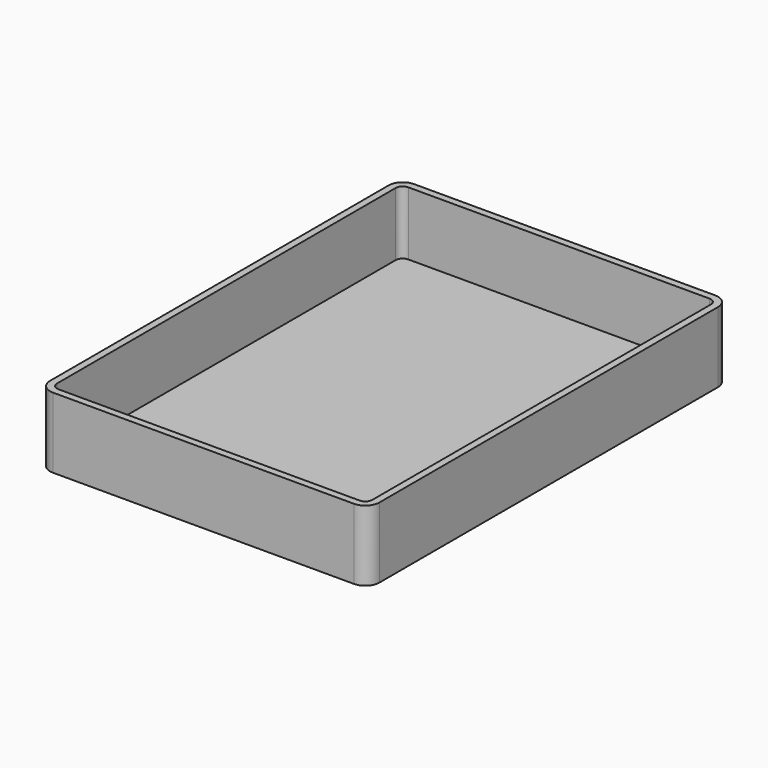
from build123d import *

# Parameters (mm, degrees)
F0_W     = 118.589319
F0_H     = 162.553676
F1_DEPTH = 25.4
F2_R     = 5.08
F3_T     = -2.54


with BuildPart() as f1:
    # F0 (on Top) → F1 (new body)
    with BuildSketch(Plane.XY):
        with Locations((59.294659, 57.971325)):
            Rectangle(F0_W, F0_H)
    extrude(amount=F1_DEPTH)

    # F2
    f2_edges = [f1.edges().sort_by_distance(p)[0] for p in [
        (118.589319, -23.305513, 12.7),
        (118.589319, 139.248163, 12.7),
        (0, 139.248163, 12.7),
        (0, -23.305513, 12.7),
    ]]
    fillet(f2_edges, radius=F2_R)

    # F3
    f3_openings = [f1.faces().sort_by_distance(p)[0] for p in [
        (59.29466, 57.971325, 25.4),
    ]]
    offset(amount=F3_T, openings=f3_openings)


solid = f1.part
